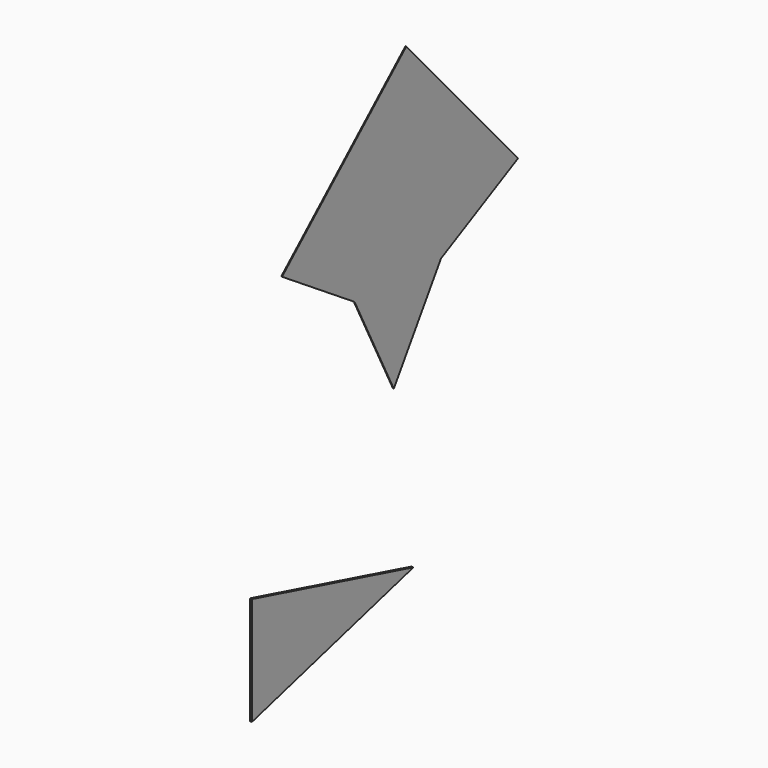
from build123d import *

# Parameters (mm, degrees)
F1_DEPTH = 1.27
F3_DEPTH = 0.508


with BuildPart() as f1:
    # F0 (on Right) → F1 (new body)
    with BuildSketch(Plane.YZ):
        Polygon((-320.0479941891, -297.0060277551), (-442.7205741278, -264.1360090271), (-442.7205741278, -329.8760464832), align=None)
    extrude(amount=F1_DEPTH)


with BuildPart() as f3:
    # F2 (on Right) → F3 (new body)
    with BuildSketch(Plane.YZ):
        Polygon((-363.8302143751, -137.3880438302), (-298.1824702711, -140.8703159005), (-324.5083341772, -16.6288216661), align=None)
        Polygon((-334.0220783988, -195.9817939606), (-298.1824702711, -140.8703159005), (-363.8302143751, -137.3880438302), align=None)
        Polygon((-324.5083341772, -16.6288216661), (-298.1824702711, -140.8703159005), (-239.5887201407, -111.0621799242), align=None)
        Polygon((-363.8302143751, -137.3880438302), (-324.5083341772, -16.6288216661), (-418.9416924353, -101.5484357025), align=None)
    extrude(amount=F3_DEPTH)


solid = Compound([f1.part, f3.part])
